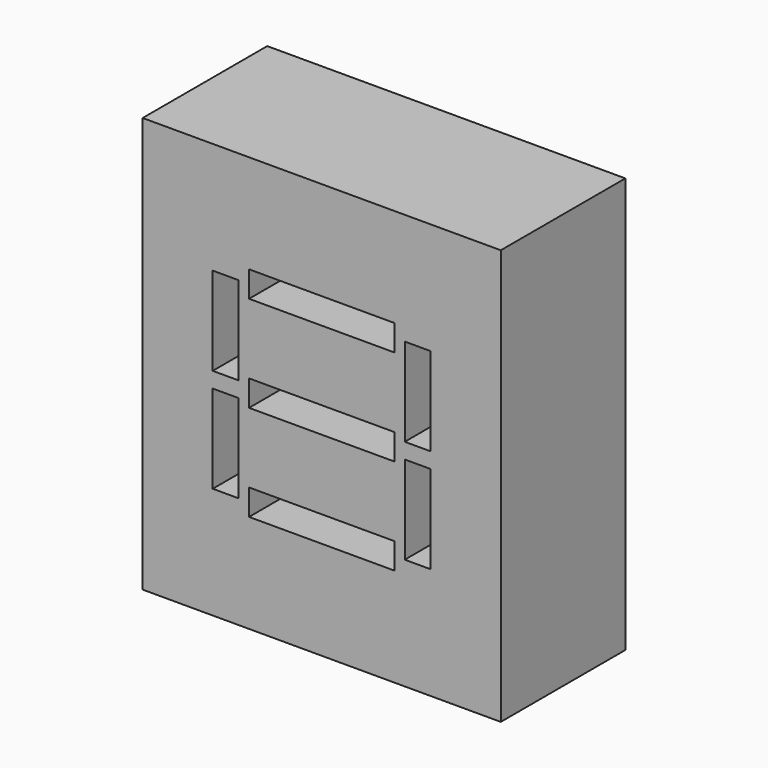
from build123d import *

# Parameters (mm, degrees)
F0_W     = 6.9
F0_H     = 8
F1_DEPTH = 3
F2_W     = 2.8
F2_H     = 0.5
F2_W_2   = 0.5
F2_H_2   = 1.7
F3_DEPTH = 1


with BuildPart() as f1:
    # F0 (on Front) → F1 (new body)
    with BuildSketch(Plane.XZ):
        with Locations((3.45, -4)):
            Rectangle(F0_W, F0_H)
    extrude(amount=F1_DEPTH)

    # F2 (on face) → F3 (cut)
    with BuildSketch(Plane.XZ.offset(3)):
        with Locations((3.45, -2.15)):
            Rectangle(F2_W, F2_H)
        with Locations((3.45, -5.85)):
            Rectangle(F2_W, F2_H)
        with Locations((3.45, -4)):
            Rectangle(F2_W, F2_H)
        with Locations((1.6, -5)):
            Rectangle(F2_W_2, F2_H_2)
        with Locations((1.6, -3)):
            Rectangle(F2_W_2, F2_H_2)
        with Locations((5.3, -5)):
            Rectangle(F2_W_2, F2_H_2)
        with Locations((5.3, -3)):
            Rectangle(F2_W_2, F2_H_2)
    extrude(amount=-F3_DEPTH, mode=Mode.SUBTRACT)


solid = f1.part
